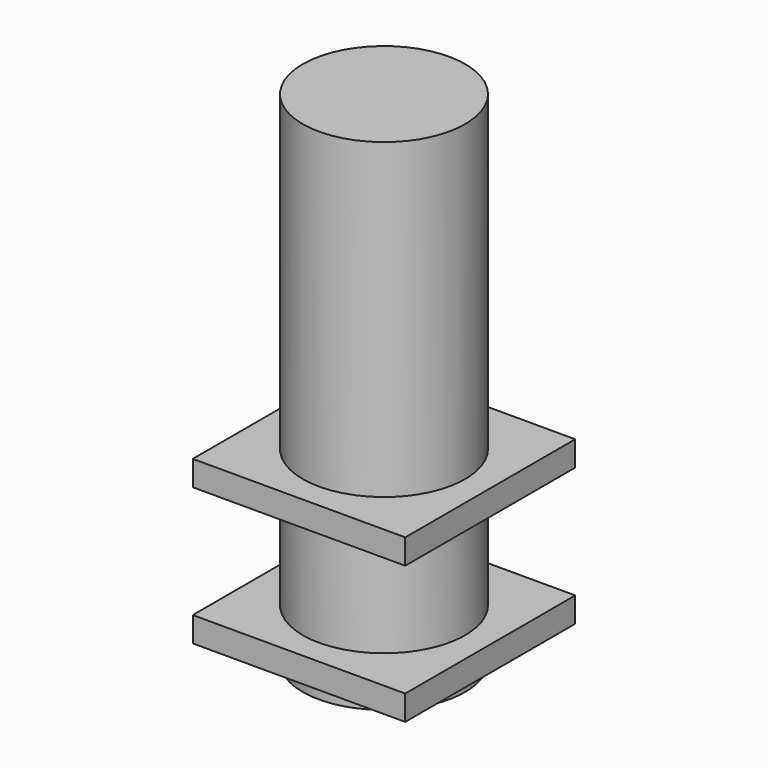
from build123d import *

# Parameters (mm, degrees)
F0_W     = 32.5
F0_H     = 200
F2_W     = 85
F2_H     = 85
F3_DEPTH = 10
F5_W     = 85
F5_H     = 85
F6_DEPTH = 10


with BuildPart() as f1:
    # F0 (on Front) → F1 (revolve)
    with BuildSketch(Plane.XZ):
        with Locations((-16.25, 90)):
            Rectangle(F0_W, F0_H)
    revolve(axis=Axis((0, 0, 90), (0, 0, -1)))

    # F2 (on Top) → F3 (join)
    with BuildSketch(Plane.XY):
        Rectangle(F2_W, F2_H)
    extrude(amount=F3_DEPTH)

    # F5 (on offset) → F6 (join)
    with BuildSketch(Plane.XY.offset(65)):
        Rectangle(F5_W, F5_H)
    extrude(amount=-F6_DEPTH)


solid = f1.part
